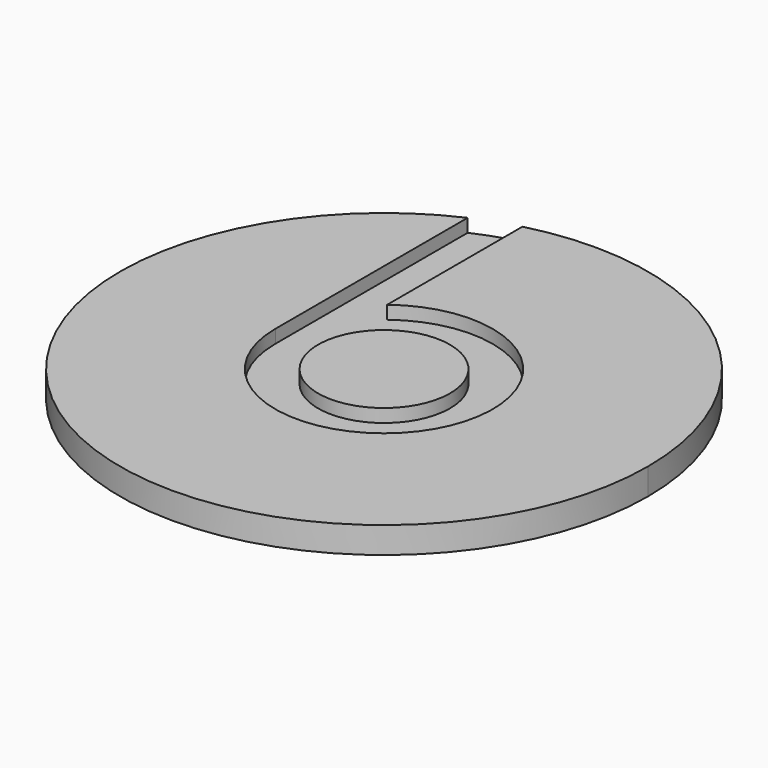
from build123d import *

# Parameters (mm, degrees)
F0_R     = 5
F1_DEPTH = 2
F2_DEPTH = 1


with BuildPart() as f1:
    # F0 (on Top) → F1 (new body)
    with BuildSketch(Plane.XY):
        with BuildLine():
            ThreePointArc((-8.240985, 18.223231), (-10.843899, -16.805054), (20, 0))
            ThreePointArc((20, 0), (12.247449, 15.811388), (-5, 19.364917))
            Line((-5, 19.364917), (-5, 6.550865))
            ThreePointArc((-5, 6.550865), (7.386432, -3.654375), (-8.240985, 0))
            Line((-8.240985, 0), (-8.240985, 18.223231))
        make_face()
        Circle(F0_R)
    extrude(amount=F1_DEPTH)


with BuildPart() as f2:
    # F0 (on Top) → F2 (new body)
    with BuildSketch(Plane.XY):
        with BuildLine():
            Line((-5, 6.550865), (-5, 19.364917))
            ThreePointArc((-5, 19.364917), (-6.645057, 18.863807), (-8.240985, 18.223231))
            Line((-8.240985, 18.223231), (-8.240985, 0))
            ThreePointArc((-8.240985, 0), (7.386432, -3.654375), (-5, 6.550865))
        make_face()
        Circle(F0_R, mode=Mode.SUBTRACT)
    extrude(amount=F2_DEPTH)


solid = Compound([f1.part, f2.part])
